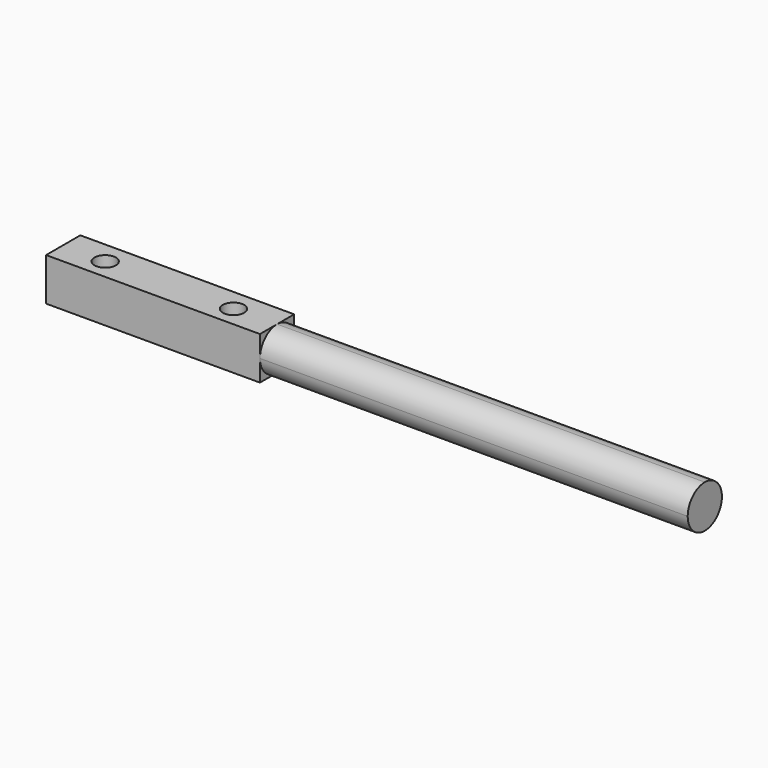
from build123d import *

# Parameters (mm, degrees)
F0_W     = 63.5
F0_H     = 12.7
F0_R     = 3.175
F1_DEPTH = 12.7
F3_DEPTH = 127


with BuildPart() as f1:
    # F0 (on Top) → F1 (new body)
    with BuildSketch(Plane.XY):
        with Locations((-6.239772, -20.539261)):
            Rectangle(F0_W, F0_H)
        with Locations((-25.289772, -20.832792)):
            Circle(F0_R, mode=Mode.SUBTRACT)
        with Locations((12.810228, -20.832792)):
            Circle(F0_R, mode=Mode.SUBTRACT)
    extrude(amount=F1_DEPTH)

    # F2 (on face) → F3 (join)
    with BuildSketch(Plane.YZ.offset(25.510228)):
        with BuildLine():
            ThreePointArc((-20.539261, 0), (-16.049132, 1.859872), (-14.189261, 6.35))
            ThreePointArc((-14.189261, 6.35), (-16.049132, 10.840128), (-20.539261, 12.7))
            ThreePointArc((-20.539261, 12.7), (-25.029389, 10.840128), (-26.889261, 6.35))
            ThreePointArc((-26.889261, 6.35), (-25.029389, 1.859872), (-20.539261, 0))
        make_face()
    extrude(amount=F3_DEPTH)


solid = f1.part
